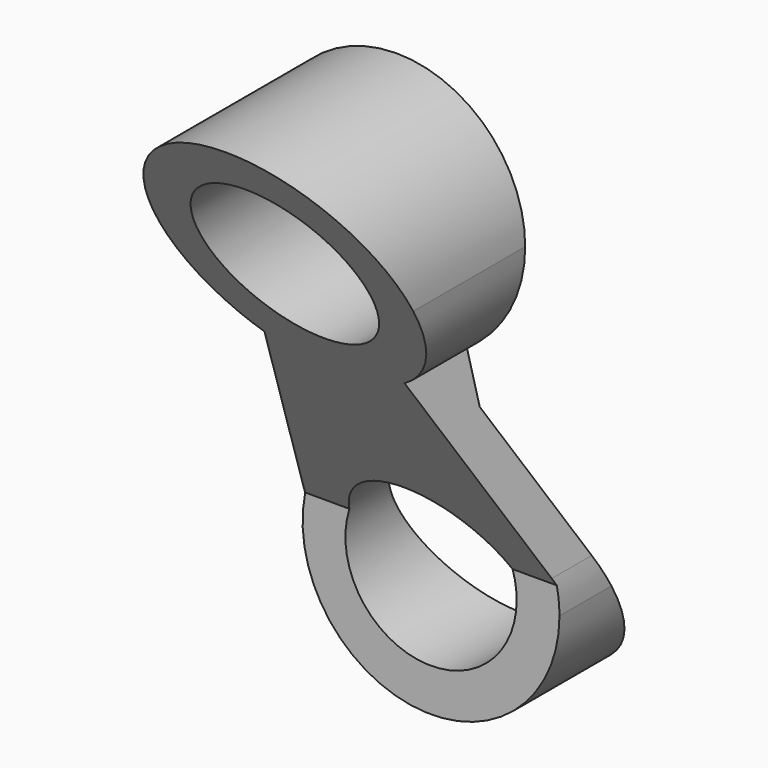
from build123d import *

# Parameters (mm, degrees)
F0_R          = 25.4
F1_DEPTH      = 63.5
F1_DEPTH_BACK = 53.975
F3_DEPTH      = 50.8


with BuildPart() as f1:
    # F0 (on Front) → F1 (new body, two sides)
    with BuildSketch(Plane.XZ) as f1_sk:
        with BuildLine():
            ThreePointArc((-20.777584, 18.864096), (0, 12.7), (20.777584, 18.864096))
            ThreePointArc((20.777584, 18.864096), (33.490566, 32.634318), (38.1, 50.8))
            ThreePointArc((38.1, 50.8), (-18.165682, 84.290566), (-20.777584, 18.864096))
        make_face()
        with Locations((0, 50.8)):
            Circle(F0_R, mode=Mode.SUBTRACT)
        with BuildLine():
            ThreePointArc((-36.801774, -40.938994), (0, -12.7), (36.801774, -40.938994))
            Line((36.801774, -40.938994), (20.777584, 18.864096))
            ThreePointArc((20.777584, 18.864096), (0, 12.7), (-20.777584, 18.864096))
            Line((-20.777584, 18.864096), (-36.801774, -40.938994))
        make_face()
        with BuildLine():
            ThreePointArc((-36.801774, -40.938994), (-4.973048, -88.574049), (38.1, -50.8))
            ThreePointArc((38.1, -50.8), (37.774049, -45.826952), (36.801774, -40.938994))
            ThreePointArc((36.801774, -40.938994), (0, -12.7), (-36.801774, -40.938994))
        make_face()
        with Locations((0, -50.8)):
            Circle(F0_R, mode=Mode.SUBTRACT)
    extrude(amount=F1_DEPTH)
    extrude(f1_sk.sketch, amount=-F1_DEPTH_BACK)

    # F2 (on Right) → F3 (intersect, symmetric)
    with BuildSketch(Plane.YZ):
        Polygon((0, 88.9), (-63.5, 88.9), (12.7, -43.082272), (12.7, -88.9), (53.975, -88.9), (0, 4.587442), align=None)
    extrude(amount=F3_DEPTH, both=True, mode=Mode.INTERSECT)


solid = f1.part
